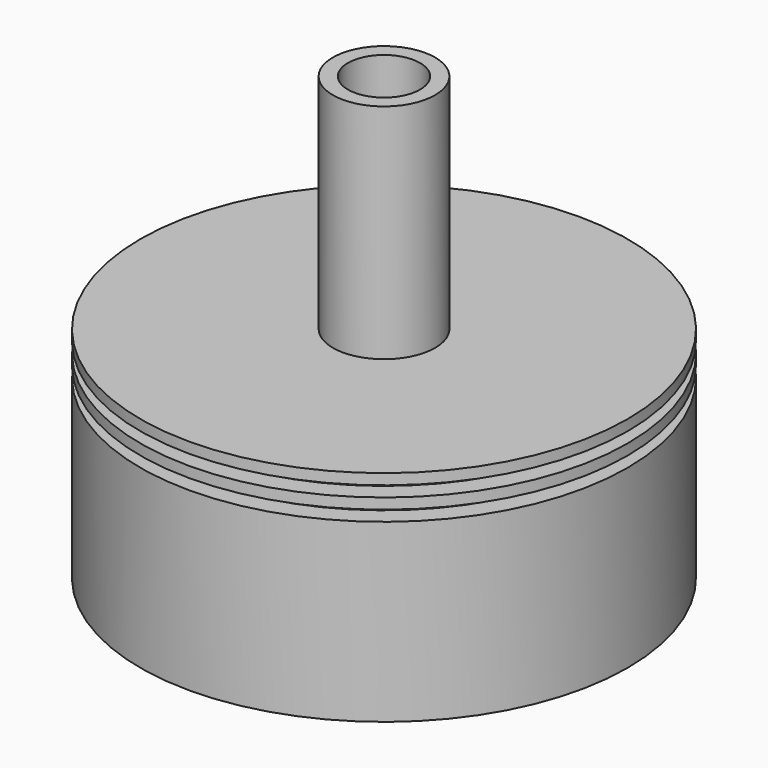
from build123d import *

# Parameters (mm, degrees)
F3_R     = 4.699
F4_DEPTH = 9.525


with BuildPart() as f2:
    # F1 (on Front) → F2 (revolve)
    with BuildSketch(Plane.XZ):
        Polygon((6.65395, 28.993649), (0, 28.993649), (0, -12.257025), (1.5875, -12.257025), (1.5875, -33.638652), (2.178145, -33.638652), (8.255809, -28.5386), (31.75, -28.5386), (31.75, -5.588), (29.218871, -5.588), (29.218871, -4.191), (31.75, -4.191), (31.75, -2.794), (29.218871, -2.794), (29.218871, -1.397), (31.75, -1.397), (31.75, 0), (6.65395, 0), align=None)
    revolve(axis=Axis((0, 0, -2.756351), (0, 0, -1)))

    # F3 (on face) → F4 (cut)
    with BuildSketch(Plane.XY.offset(28.993649)):
        Circle(F3_R)
    extrude(amount=-F4_DEPTH, mode=Mode.SUBTRACT)


solid = f2.part
